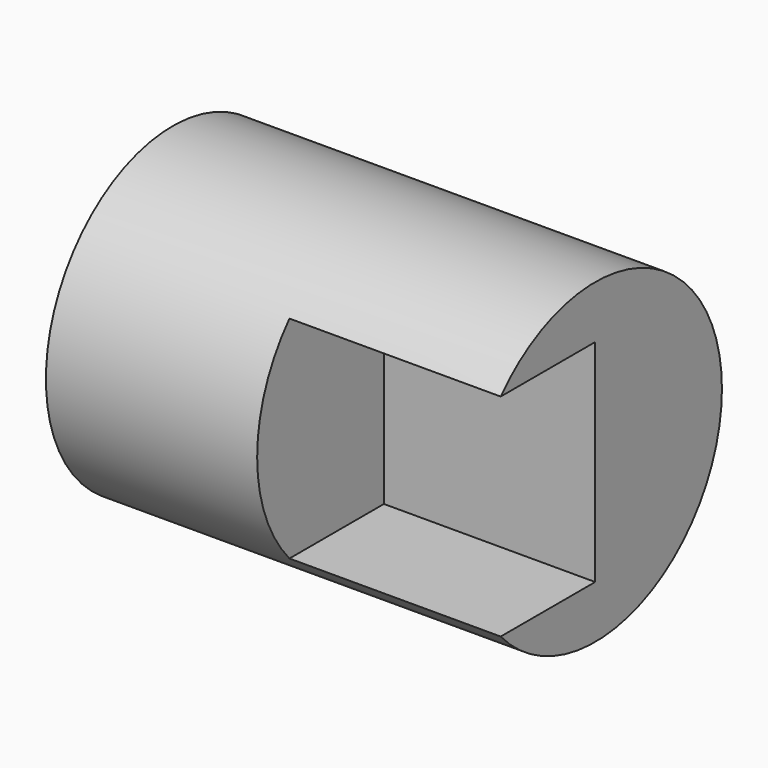
from build123d import *

# Parameters (mm, degrees)
F0_R     = 19.05
F1_DEPTH = 50.8
F4_DEPTH = 25.4


with BuildPart() as f1:
    # F0 (on Right) → F1 (new body)
    with BuildSketch(Plane.YZ):
        Circle(F0_R)
    extrude(amount=F1_DEPTH)

    # F3 (on offset) → F4 (cut)
    with BuildSketch(Plane.YZ.offset(25.4)):
        with BuildLine():
            Line((0, 12.7), (-14.199032, 12.7))
            ThreePointArc((-14.199032, 12.7), (-19.05, 0), (-14.199032, -12.7))
            Line((-14.199032, -12.7), (0, -12.7))
            Line((0, -12.7), (0, 12.7))
        make_face()
    extrude(amount=F4_DEPTH, mode=Mode.SUBTRACT)


solid = f1.part
